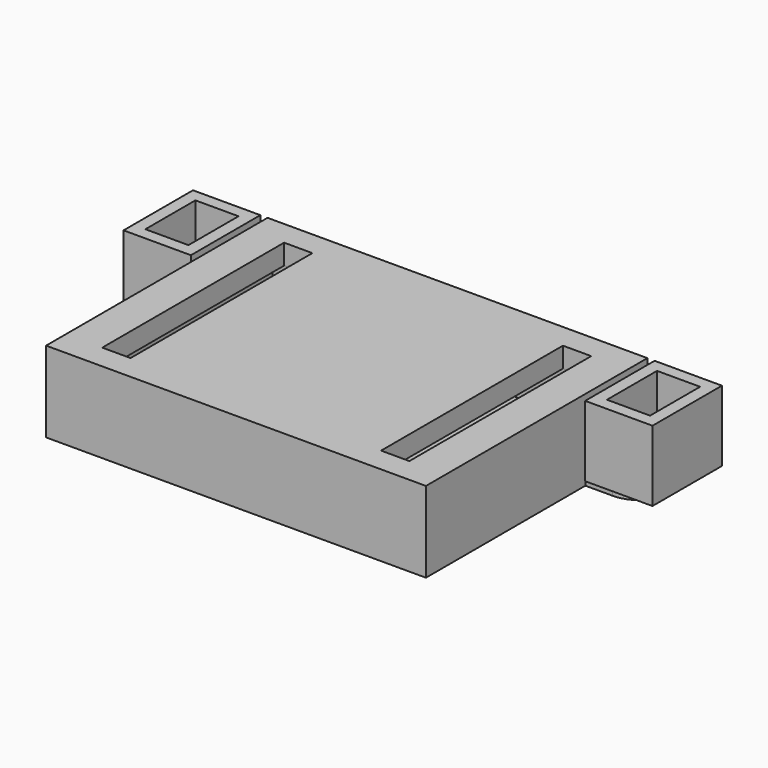
from build123d import *

# Parameters (mm, degrees)
F0_W           = 37.6000000209
F0_H           = 27.4000000209
F0_W_2         = 35.2
F0_H_2         = 25
F0_W_3         = 2.8
F0_H_3         = 22.5
F1_DEPTH       = 2
F0_W_4         = 6.6650174558
F0_H_4         = 8.5915359668
F2_DEPTH       = 6
F3_R           = 1.75
F4_DEPTH       = 1
F1_FACE_W      = 6.6650174558
F1_FACE_H      = 8.5915359668
F5_DEPTH       = 5
F6_W           = 4.2650178075
F6_H           = 6.1915363185
F7_DEPTH       = 6
F9_W           = 33.7
F9_H           = 23.5
F9_W_2         = 32.7
F9_H_2         = 22.5
F10_DEPTH      = 4.5
F11_DEPTH      = 4.5
F11_DEPTH_BACK = 4


with BuildPart() as f1:
    # F0 (on Top) → F1 (new body)
    with BuildSketch(Plane.XY):
        Rectangle(F0_W, F0_H)
        Rectangle(F0_W_2, F0_H_2, mode=Mode.SUBTRACT)
        Rectangle(F0_W_2, F0_H_2)
        with Locations((-13.8, 0)):
            Rectangle(F0_W_3, F0_H_3, mode=Mode.SUBTRACT)
        with Locations((13.8, 0)):
            Rectangle(F0_W_3, F0_H_3, mode=Mode.SUBTRACT)
    extrude(amount=F1_DEPTH)

    # F0 (on Top) → F2 (join)
    with BuildSketch(Plane.XY):
        Rectangle(F0_W, F0_H)
        Rectangle(F0_W_2, F0_H_2, mode=Mode.SUBTRACT)
    extrude(amount=-F2_DEPTH)

    # F3 (on face) → F4 (join)
    with BuildSketch(Plane(origin=(0, 0, -6), x_dir=(1, 0, 0), z_dir=(0, 0, -1))):
        with BuildLine():
            Line((-17.5, -12.75), (-17.5, -6.0264541484))
            Line((-17.5, -6.0264541484), (-21.5, -6.0264541484))
            ThreePointArc((-21.5, -6.0264541484), (-24.8749814445, -9.4126456206), (-21.4776171787, -12.7763799267))
            Line((-21.4776171787, -12.7763799267), (-17.5, -12.75))
        make_face()
        with Locations((-21.5, -9.4014541484)):
            Circle(F3_R, mode=Mode.SUBTRACT)
        with BuildLine():
            ThreePointArc((21.4776171787, -12.7763799267), (24.8749814445, -9.4126456206), (21.5, -6.0264541484))
            Line((21.5, -6.0264541484), (17.5, -6.0264541484))
            Line((17.5, -6.0264541484), (17.5, -12.75))
            Line((17.5, -12.75), (21.4776171787, -12.7763799267))
        make_face()
        with Locations((21.5, -9.4014541484)):
            Circle(F3_R, mode=Mode.SUBTRACT)
    extrude(amount=-F4_DEPTH)



with BuildPart() as f1b:
    # F0 (on Top) → F1, piece 2 (new body)
    with BuildSketch(Plane.XY):
        with Locations((-22.8454377502, 9.404232027)):
            Rectangle(F0_W_4, F0_H_4)
    extrude(amount=F1_DEPTH)


with BuildPart() as f1c:
    # F0 (on Top) → F1, piece 3 (new body)
    with BuildSketch(Plane.XY):
        with Locations((22.8454377502, 9.404232027)):
            Rectangle(F0_W_4, F0_H_4)
    extrude(amount=F1_DEPTH)


with BuildPart() as f1_1:
    add(f1.part)

    add(f1b.part)  # F5 merges F1b

    add(f1c.part)  # F5 merges F1c
    # F1_face (on face) → F5 (join)
    with BuildSketch(Plane(origin=(-22.8454377502, 9.404232027, 0), x_dir=(1, 0, 0), z_dir=(0, 0, -1))):
        Rectangle(F1_FACE_W, F1_FACE_H)
        with Locations((45.6908755004, 0)):
            Rectangle(F1_FACE_W, F1_FACE_H)
    extrude(amount=F5_DEPTH)

    # F6 (on face) → F7 (cut)
    with BuildSketch(Plane.XY.offset(2)):
        with Locations((-22.8454377502, 9.404232027)):
            Rectangle(F6_W, F6_H)
        with Locations((22.8454377502, 9.404232027)):
            Rectangle(F6_W, F6_H)
    extrude(amount=-F7_DEPTH, mode=Mode.SUBTRACT)


with BuildPart() as f10:
    # F9 (on offset) → F10 (new body)
    with BuildSketch(Plane(origin=(0, 0, 0), x_dir=(1, 0, 0), z_dir=(0, 0, -1))):
        Rectangle(F9_W, F9_H)
        Rectangle(F9_W_2, F9_H_2, mode=Mode.SUBTRACT)
        Rectangle(F9_W_2, F9_H_2)
    extrude(amount=F10_DEPTH)

    # F9 (on offset) → F11 (cut, two sides)
    with BuildSketch(Plane(origin=(0, 0, 0), x_dir=(1, 0, 0), z_dir=(0, 0, -1))) as f11_sk:
        Rectangle(F9_W_2, F9_H_2)
    extrude(amount=-F11_DEPTH, mode=Mode.SUBTRACT)
    extrude(f11_sk.sketch, amount=F11_DEPTH_BACK, mode=Mode.SUBTRACT)


solid = Compound([f1_1.part, f10.part])
